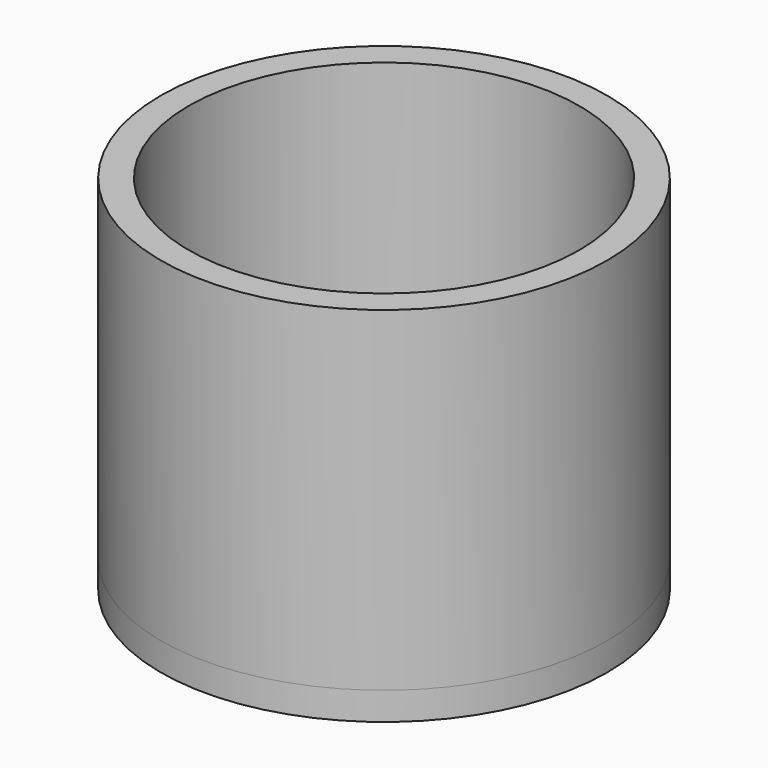
from build123d import *

# Parameters (mm, degrees)
F0_R     = 50.8
F0_R_2   = 44.45
F1_DEPTH = 76.2
F2_R     = 50.8
F3_DEPTH = 6.35


with BuildPart() as f1:
    # F0 (on Top) → F1 (new body)
    with BuildSketch(Plane.XY):
        Circle(F0_R)
        Circle(F0_R_2, mode=Mode.SUBTRACT)
    extrude(amount=F1_DEPTH)


with BuildPart() as f3:
    # F2 (on Top) → F3 (new body)
    with BuildSketch(Plane.XY):
        Circle(F2_R)
    extrude(amount=-F3_DEPTH)


solid = Compound([f1.part, f3.part])
